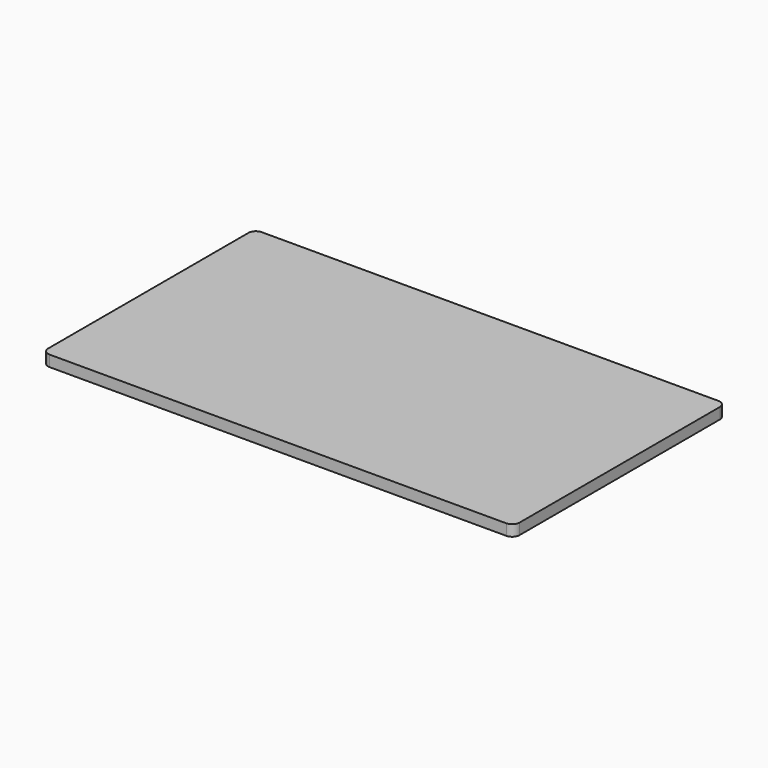
from build123d import *

# Parameters (mm, degrees)
F0_W     = 812.8
F0_H     = 457.2
F1_DEPTH = 19.05
F2_R     = 12.7
F3_W     = 19.446875
F3_H     = 18.653125
F3_H_2   = 266.7
F4_DEPTH = 9.525
F5_W     = 19.446875
F5_H     = 381
F6_DEPTH = 9.525
F7_W     = 313.928125
F7_H     = 19.446875
F7_W_2   = 415.925
F8_DEPTH = 9.525


with BuildPart() as f1:
    # F0 (on Top) → F1 (new body)
    with BuildSketch(Plane.XY):
        Rectangle(F0_W, F0_H)
    extrude(amount=F1_DEPTH)

    # F2
    f2_edges = [f1.edges().sort_by_distance(p)[0] for p in [
        (-406.4, -228.6, 9.525),
        (406.4, -228.6, 9.525),
        (406.4, 228.6, 9.525),
        (-406.4, 228.6, 9.525),
    ]]
    fillet(f2_edges, radius=F2_R)

    # F3 (on face) → F4 (cut)
    with BuildSketch(Plane(origin=(0, 0, 0), x_dir=(1, 0, 0), z_dir=(0, 0, -1))):
        with Locations((-50.998437, 142.676562)):
            Rectangle(F3_W, F3_H)
        with Locations((-50.998437, 0)):
            Rectangle(F3_W, F3_H_2)
    extrude(amount=-F4_DEPTH, mode=Mode.SUBTRACT)

    # F5 (on face) → F6 (cut)
    with BuildSketch(Plane(origin=(0, 0, 0), x_dir=(1, 0, 0), z_dir=(0, 0, -1))):
        with Locations((364.926562, 0)):
            Rectangle(F5_W, F5_H)
        with Locations((-364.926562, 0)):
            Rectangle(F5_W, F5_H)
    extrude(amount=-F6_DEPTH, mode=Mode.SUBTRACT)

    # F7 (on face) → F8 (cut)
    with BuildSketch(Plane(origin=(0, 0, 0), x_dir=(1, 0, 0), z_dir=(0, 0, -1))):
        with Locations((-198.239062, -123.626562)):
            Rectangle(F7_W, F7_H)
        with Locations((147.240625, 161.726562)):
            Rectangle(F7_W_2, F7_H)
    extrude(amount=-F8_DEPTH, mode=Mode.SUBTRACT)


solid = f1.part
